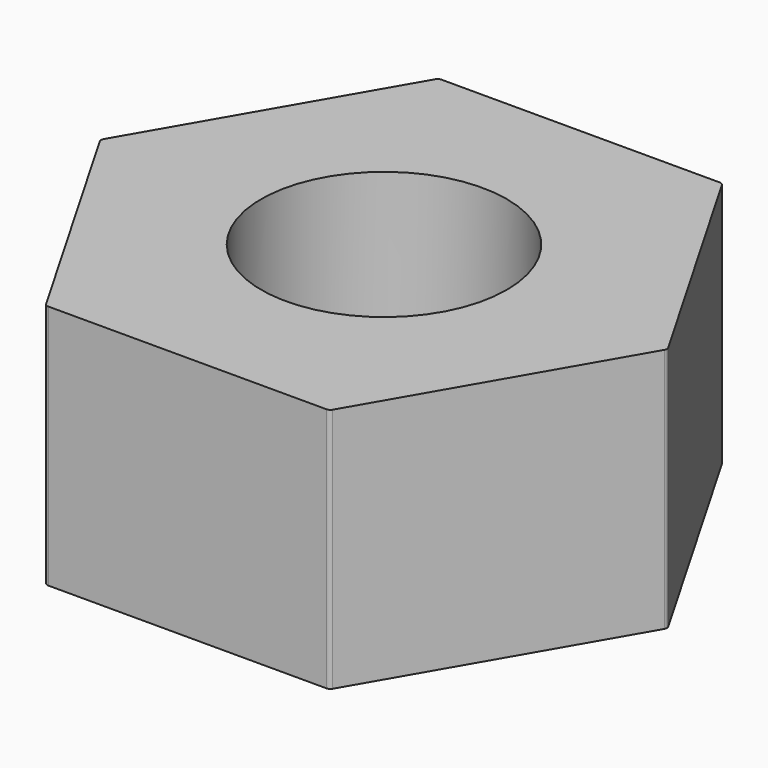
from build123d import *

# Parameters (mm, degrees)
F0_R     = 2.5
F1_DEPTH = 5
F2_R     = 0.1


with BuildPart() as f1:
    # F0 (on Top) → F1 (new body)
    with BuildSketch(Plane.XY):
        Polygon((2.886751, -5), (5.773503, 0), (2.886751, 5), (-2.886751, 5), (-5.773503, 0), (-2.886751, -5), align=None)
        Circle(F0_R, mode=Mode.SUBTRACT)
    extrude(amount=F1_DEPTH)

    # F2
    f2_edges = [f1.edges().sort_by_distance(p)[0] for p in [
        (5.773503, 0, 2.5),
        (2.886751, 5, 2.5),
        (-2.886751, 5, 2.5),
        (2.886751, -5, 2.5),
        (-5.773503, 0, 2.5),
        (-2.886751, -5, 2.5),
    ]]
    fillet(f2_edges, radius=F2_R)


solid = f1.part
